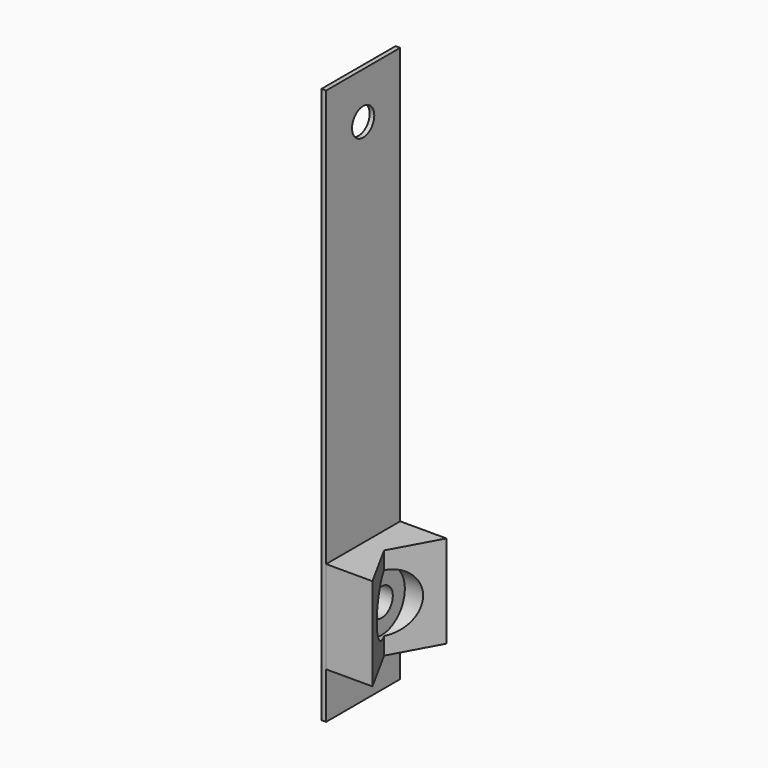
from build123d import *

# Parameters (mm, degrees)
F0_W     = 40
F0_H     = 20
F0_H_2   = 180
F0_R     = 6
F0_H_3   = 40
F1_DEPTH = 2
F2_DEPTH = 20
F3_R     = 12.5
F3_R_2   = 6
F4_DEPTH = 12
F6_DEPTH = 60.001


with BuildPart() as f1:
    # F0 (on Right) → F1 (new body)
    with BuildSketch(Plane.YZ):
        with Locations((0, -110)):
            Rectangle(F0_W, F0_H)
        with Locations((0, 30)):
            Rectangle(F0_W, F0_H_2)
        with Locations((0, 100)):
            Circle(F0_R, mode=Mode.SUBTRACT)
        with Locations((0, -80)):
            Rectangle(F0_W, F0_H_3)
        with Locations((0, -80)):
            Circle(F0_R, mode=Mode.SUBTRACT)
    extrude(amount=-F1_DEPTH)


with BuildPart() as f2:
    # F0 (on Right) → F2 (new body)
    with BuildSketch(Plane.YZ):
        with Locations((0, -80)):
            Rectangle(F0_W, F0_H_3)
        with Locations((0, -80)):
            Circle(F0_R, mode=Mode.SUBTRACT)
    extrude(amount=F2_DEPTH)

    # F3 (on face) → F4 (cut)
    with BuildSketch(Plane.YZ.offset(20)):
        with Locations((0, -80)):
            Circle(F3_R)
        with Locations((0, -80)):
            Circle(F3_R_2, mode=Mode.SUBTRACT)
    extrude(amount=-F4_DEPTH, mode=Mode.SUBTRACT)

    # F5 (on face) → F6 (cut, through all)
    with BuildSketch(Plane.XY.offset(-60)):
        Polygon((9.041194, 0), (20, -20), (20, 20), align=None)
    extrude(amount=-F6_DEPTH, mode=Mode.SUBTRACT)


solid = Compound([f1.part, f2.part])
